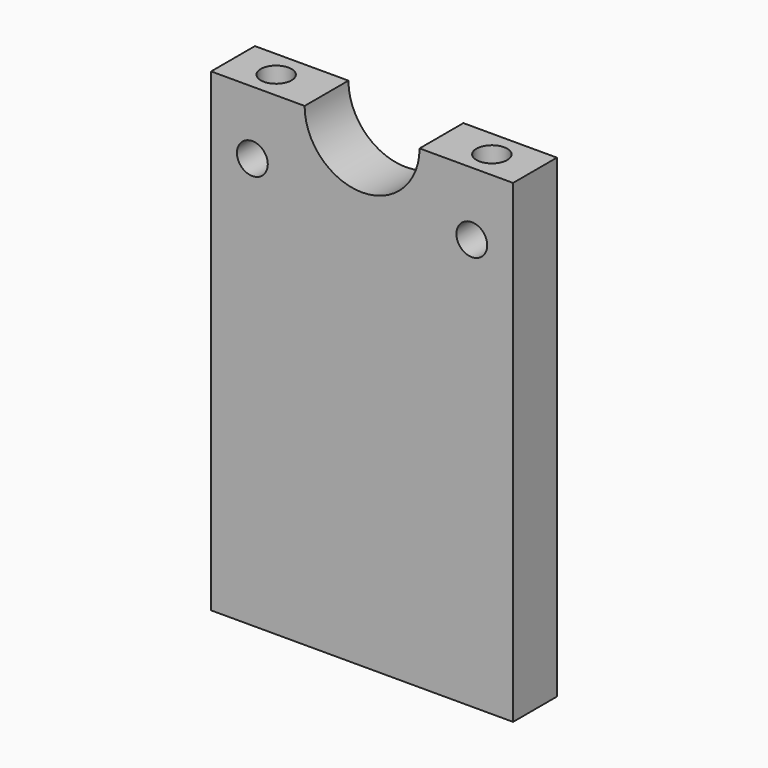
from build123d import *

# Parameters (mm, degrees)
SKETCH035_R  = 3.571875
PAD031_DEPTH = 6
SKETCH034_R  = 3.571875
PAD029_DEPTH = 6
SKETCH033_R  = 3.571875
PAD032_DEPTH = 50
SKETCH030_R  = 3.571875
PAD030_DEPTH = 33.7
PAD034_DEPTH = 12.7


with BuildPart() as body031:
    # Sketch035 → Pad031 (new body)
    with BuildSketch(Plane.XY):
        Circle(SKETCH035_R)
    extrude(amount=PAD031_DEPTH)


with BuildPart() as body031_1:
    # Body031 placement: moved
    add(body031.part.moved(Location((150, -6.35, 115))))


with BuildPart() as body030:
    # Sketch034 → Pad029 (new body)
    with BuildSketch(Plane.XY):
        Circle(SKETCH034_R)
    extrude(amount=PAD029_DEPTH)


with BuildPart() as body030_1:
    # Body030 placement: moved
    add(body030.part.moved(Location((100, -6.35, 115))))


with BuildPart() as body028:
    # Sketch033 → Pad032 (new body)
    with BuildSketch(Plane.XZ):
        Circle(SKETCH033_R)
    extrude(amount=PAD032_DEPTH)


with BuildPart() as body028_1:
    # Body028 placement: moved
    add(body028.part.moved(Location((50.4341, 10, 105.316))))


with BuildPart() as body027:
    # Sketch030 → Pad030 (new body)
    with BuildSketch(Plane.XZ):
        Circle(SKETCH030_R)
    extrude(amount=PAD030_DEPTH)


with BuildPart() as body027_1:
    # Body027 placement: moved
    add(body027.part.moved(Location((-0.434083, 5, 105.316))))


with BuildPart() as bracelower003:
    # Sketch032 → Pad034 (new body)
    with BuildSketch(Plane.XZ):
        with BuildLine():
            Line((0, 0), (0, 110))
            Line((0, 110), (21.675, 110))
            ThreePointArc((21.675, 110), (35, 96.674972), (48.325, 110))
            Line((48.325, 110), (70, 110))
            Line((70, 110), (70, 0))
            Line((70, 0), (0, 0))
        make_face()
    extrude(amount=PAD034_DEPTH)


with BuildPart() as bracelower003_1:
    # Body032 placement: moved
    add(bracelower003.part.moved(Location((-10, 0, 10))))

    # Cut022: cut Body027
    add(body027_1.part, mode=Mode.SUBTRACT)

    # Cut025: cut Body028
    add(body028_1.part, mode=Mode.SUBTRACT)


with BuildPart() as bracelower003_2:
    # Cut025 placement: moved
    add(bracelower003_1.part.moved(Location((100, 0, 0))))

    # Cut026: cut Body030
    add(body030_1.part, mode=Mode.SUBTRACT)

    # Cut023: cut Body031
    add(body031_1.part, mode=Mode.SUBTRACT)


with BuildPart() as bracelower003_3:
    # Cut023 placement: moved
    add(bracelower003_2.part.moved(Location((-100, 0, 0))))


solid = bracelower003_3.part
